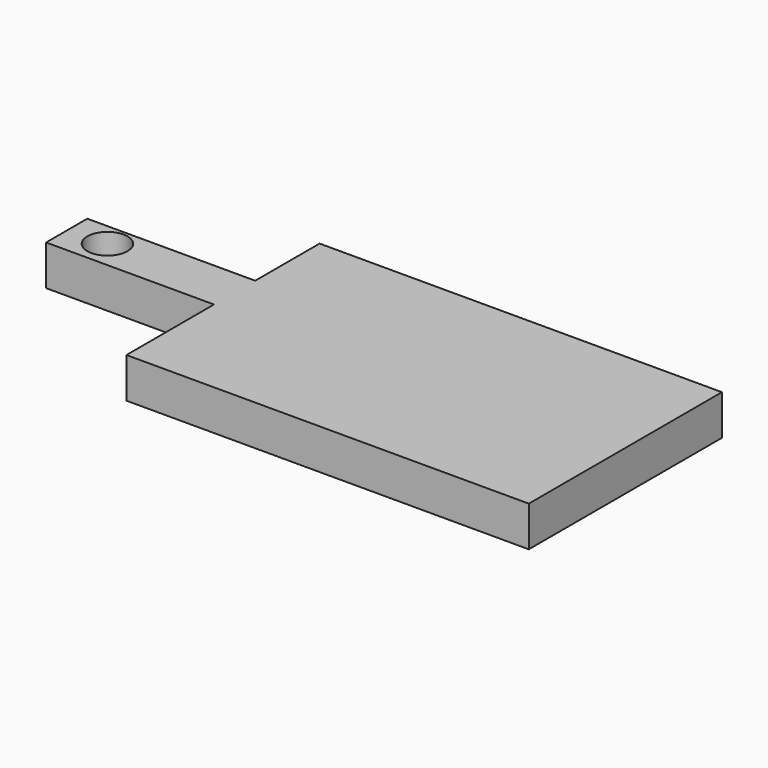
from build123d import *

# Parameters (mm, degrees)
F0_W     = 106.009863
F0_H     = 32.523151
F1_DEPTH = 25.4
F2_R     = 12.7
F3_DEPTH = 25.4


with BuildPart() as f1:
    # F0 (on Top) → F1 (new body)
    with BuildSketch(Plane.XY):
        Polygon((0, 69.076849), (0, 0), (254, 0), (254, 152.4), (0, 152.4), (0, 101.6), align=None)
        with Locations((-53.004931, 85.338425)):
            Rectangle(F0_W, F0_H)
    extrude(amount=F1_DEPTH)

    # F2 (on face) → F3 (cut)
    with BuildSketch(Plane.XY.offset(25.4)):
        with Locations((-81.52055, 86.884722)):
            Circle(F2_R)
    extrude(amount=-F3_DEPTH, mode=Mode.SUBTRACT)


solid = f1.part
